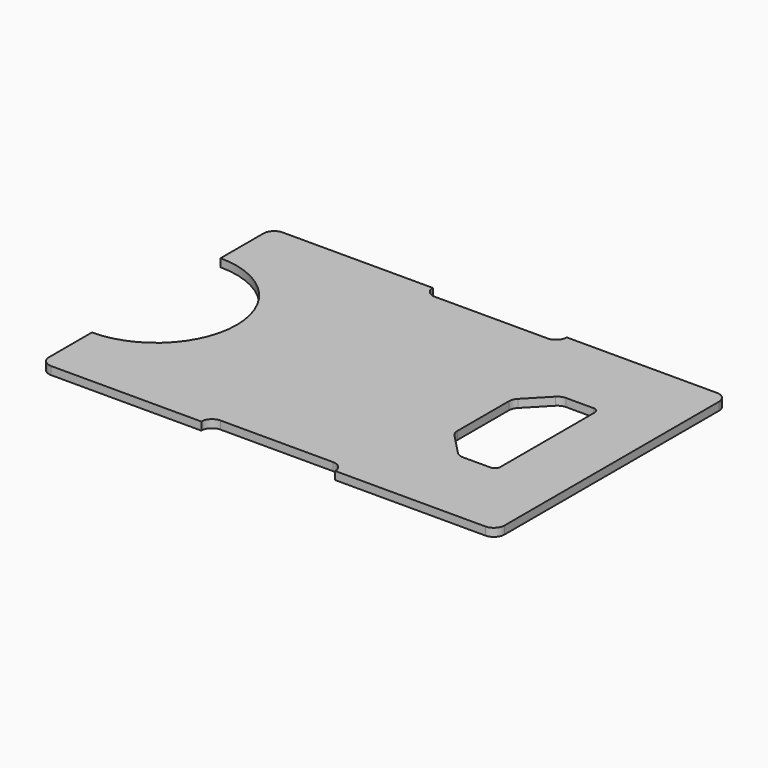
from build123d import *

# Parameters (mm, degrees)
F1_DEPTH = 1.5


with BuildPart() as f1:
    # F0 (on Top) → F1 (new body)
    with BuildSketch(Plane.XY):
        with BuildLine():
            Line((12.5, -27), (40.5, -27))
            ThreePointArc((40.5, -27), (41.914214, -26.414214), (42.5, -25))
            Line((42.5, -25), (42.5, 25))
            ThreePointArc((42.5, 25), (41.914214, 26.414214), (40.5, 27))
            Line((40.5, 27), (12.5, 27))
            ThreePointArc((12.5, 27), (11.914214, 25.585786), (10.5, 25))
            Line((10.5, 25), (-10.5, 25))
            ThreePointArc((-10.5, 25), (-11.914214, 25.585786), (-12.5, 27))
            Line((-12.5, 27), (-40.5, 27))
            ThreePointArc((-40.5, 27), (-41.914214, 26.414214), (-42.5, 25))
            Line((-42.5, 25), (-42.5, 15))
            ThreePointArc((-42.5, 15), (-27.5, 0), (-42.5, -15))
            Line((-42.5, -15), (-42.5, -25))
            ThreePointArc((-42.5, -25), (-41.914214, -26.414214), (-40.5, -27))
            Line((-40.5, -27), (-12.5, -27))
            ThreePointArc((-12.5, -27), (-11.914214, -25.585786), (-10.5, -25))
            Line((-10.5, -25), (10.5, -25))
            ThreePointArc((10.5, -25), (11.914213, -25.585787), (12.5, -27))
        make_face()
        with BuildLine():
            Line((30.5, 11), (30.5, 0))
            Line((30.5, 0), (30.5, -11))
            ThreePointArc((30.5, -11), (30.207107, -11.707107), (29.5, -12))
            Line((29.5, -12), (24.350781, -12))
            ThreePointArc((24.350781, -12), (23.567891, -11.840403), (22.909948, -11.387083))
            Line((22.909948, -11.387083), (19.059167, -7.387083))
            ThreePointArc((19.059167, -7.387083), (18.645052, -6.747775), (18.5, -6))
            Line((18.5, -6), (18.5, 0))
            Line((18.5, 0), (18.5, 6))
            ThreePointArc((18.5, 6), (18.645052, 6.747775), (19.059167, 7.387083))
            Line((19.059167, 7.387083), (22.909948, 11.387083))
            ThreePointArc((22.909948, 11.387083), (23.567891, 11.840403), (24.350781, 12))
            Line((24.350781, 12), (29.5, 12))
            ThreePointArc((29.5, 12), (30.207107, 11.707107), (30.5, 11))
        make_face(mode=Mode.SUBTRACT)
    extrude(amount=F1_DEPTH)


solid = f1.part
